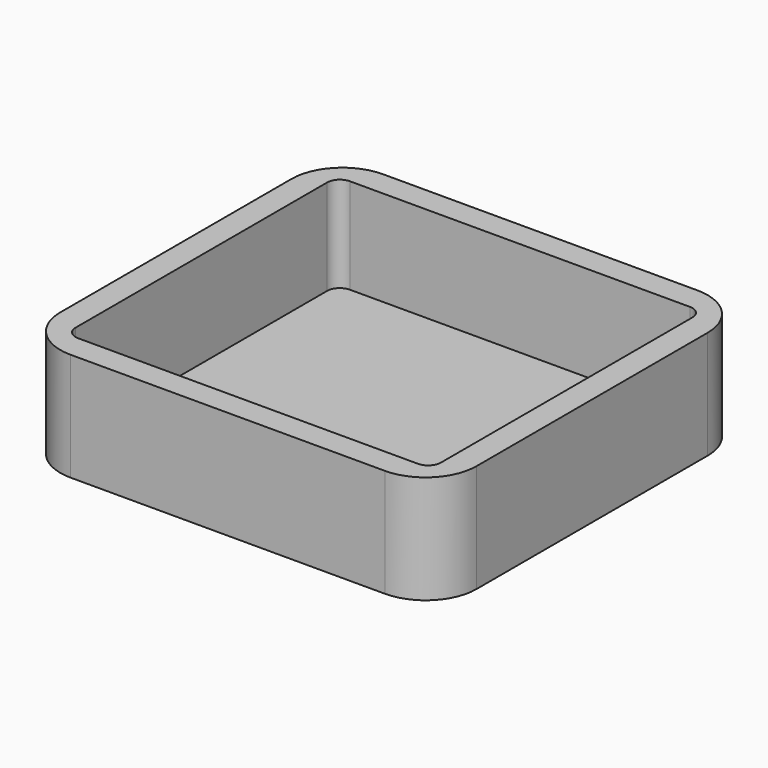
from build123d import *

# Parameters (mm, degrees)
F0_W     = 41.529
F0_H     = 38.989
F1_DEPTH = 1.27
F2_W     = 41.529
F2_H     = 38.989
F2_W_2   = 36.449
F2_H_2   = 33.909
F3_DEPTH = 9.525
F4_R     = 5.08
F5_R     = 1.27


with BuildPart() as f1:
    # F0 (on Top) → F1 (new body)
    with BuildSketch(Plane.XY):
        with Locations((1.983731, 4.818643)):
            Rectangle(F0_W, F0_H)
    extrude(amount=F1_DEPTH)

    # F2 (on face) → F3 (join)
    with BuildSketch(Plane.XY.offset(1.27)):
        with Locations((1.983731, 4.818643)):
            Rectangle(F2_W, F2_H)
        with Locations((1.983731, 4.818643)):
            Rectangle(F2_W_2, F2_H_2, mode=Mode.SUBTRACT)
    extrude(amount=F3_DEPTH)

    # F4
    f4_edges = [f1.edges().sort_by_distance(p)[0] for p in [
        (-18.780769, 24.313143, 5.3975),
        (22.748231, 24.313143, 5.3975),
        (22.748231, -14.675857, 5.3975),
        (-18.780769, -14.675857, 5.3975),
    ]]
    fillet(f4_edges, radius=F4_R)

    # F5
    f5_edges = [f1.edges().sort_by_distance(p)[0] for p in [
        (-16.240769, 21.773143, 6.0325),
        (20.208231, 21.773143, 6.0325),
        (20.208231, -12.135857, 6.0325),
        (-16.240769, -12.135857, 6.0325),
    ]]
    fillet(f5_edges, radius=F5_R)


solid = f1.part
